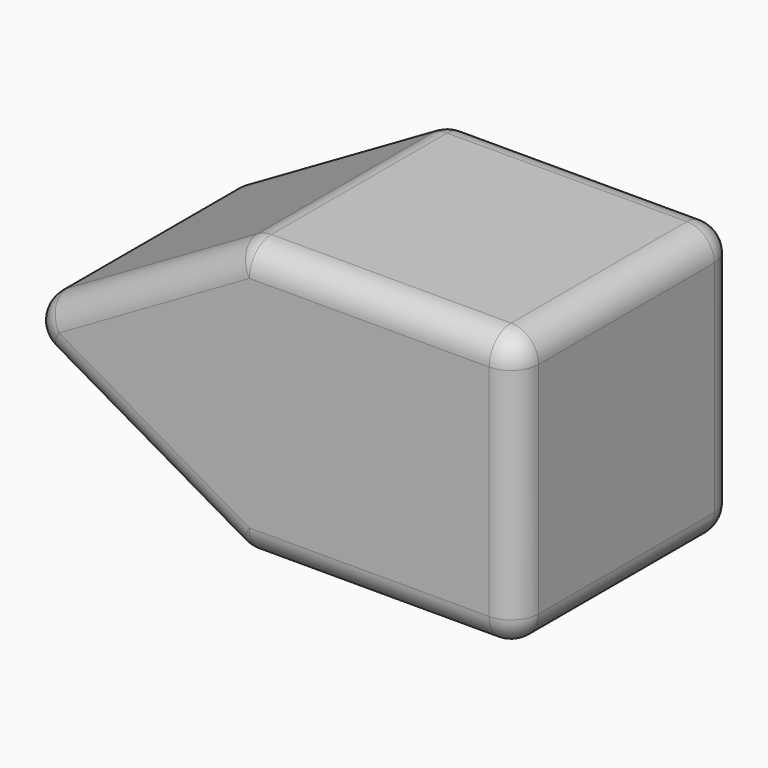
from build123d import *

# Parameters (mm, degrees)
F1_DEPTH = 50
F2_R     = 5


with BuildPart() as f1:
    # F0 (on Front) → F1 (new body)
    with BuildSketch(Plane.XZ):
        Polygon((50, -25), (-43.30127, -25), (0, -50), (50, -50), align=None)
        Polygon((50, 0), (0, 0), (-43.30127, -25), (50, -25), align=None)
    extrude(amount=F1_DEPTH)

    # F2
    f2_edges = [f1.edges().sort_by_distance(p)[0] for p in [
        (-21.650635, -50, -12.5),
        (-21.650635, -50, -37.5),
        (0, -25, -50),
        (-21.650635, 0, -37.5),
        (-43.30127, -25, -25),
        (-21.650635, 0, -12.5),
        (0, -25, 0),
        (25, 0, -50),
        (25, 0, 0),
        (25, -50, 0),
        (25, -50, -50),
        (50, -25, -50),
        (50, -50, -25),
        (50, -25, 0),
        (50, 0, -25),
    ]]
    fillet(f2_edges, radius=F2_R)


solid = f1.part
